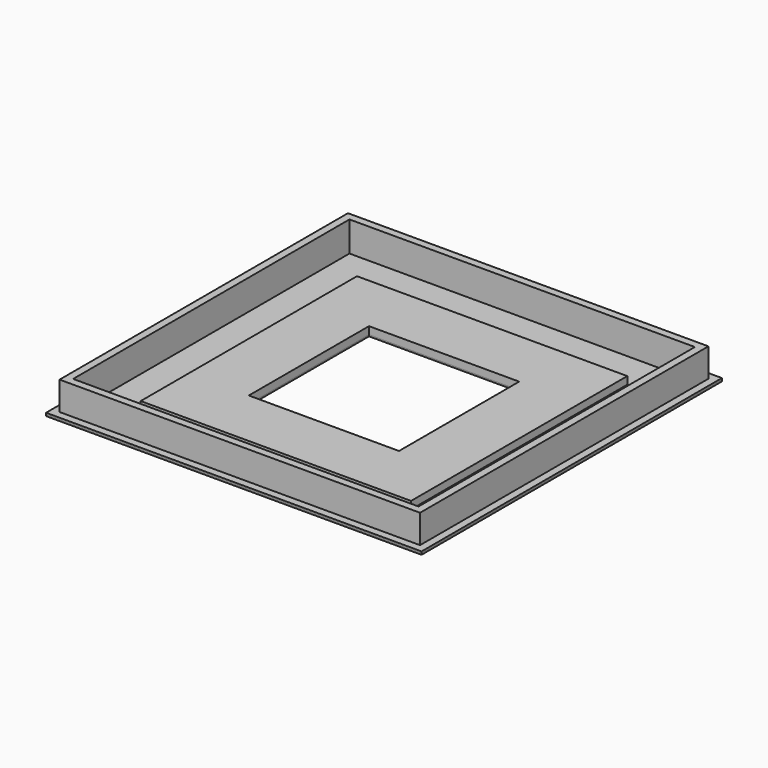
from build123d import *

# Parameters (mm, degrees)
F0_W     = 18
F0_H     = 18
F0_W_2   = 10
F0_H_2   = 10
F1_DEPTH = 0.5
F2_W     = 25
F2_H     = 25
F2_W_2   = 23
F2_H_2   = 23
F3_DEPTH = 0.1
F4_W     = 25
F4_H     = 25
F4_W_2   = 10
F4_H_2   = 10
F5_DEPTH = 0.1
F6_W     = 24
F6_H     = 24
F6_W_2   = 23
F6_H_2   = 23
F7_DEPTH = 2


with BuildPart() as f1:
    # F0 (on Top) → F1 (new body)
    with BuildSketch(Plane.XY):
        Rectangle(F0_W, F0_H)
        Rectangle(F0_W_2, F0_H_2, mode=Mode.SUBTRACT)
    extrude(amount=F1_DEPTH)


with BuildPart() as f3:
    # F2 (on Top) → F3 (new body)
    with BuildSketch(Plane.XY):
        Rectangle(F2_W, F2_H)
        Rectangle(F2_W_2, F2_H_2, mode=Mode.SUBTRACT)
    extrude(amount=F3_DEPTH)


with BuildPart() as f5:
    # F4 (on Top) → F5 (new body)
    with BuildSketch(Plane.XY):
        Rectangle(F4_W, F4_H)
        Rectangle(F4_W_2, F4_H_2, mode=Mode.SUBTRACT)
    extrude(amount=-F5_DEPTH)


with BuildPart() as f7:
    # F6 (on Top) → F7 (new body)
    with BuildSketch(Plane.XY):
        Rectangle(F6_W, F6_H)
        Rectangle(F6_W_2, F6_H_2, mode=Mode.SUBTRACT)
    extrude(amount=F7_DEPTH)


solid = Compound([f1.part, f3.part, f5.part, f7.part])
